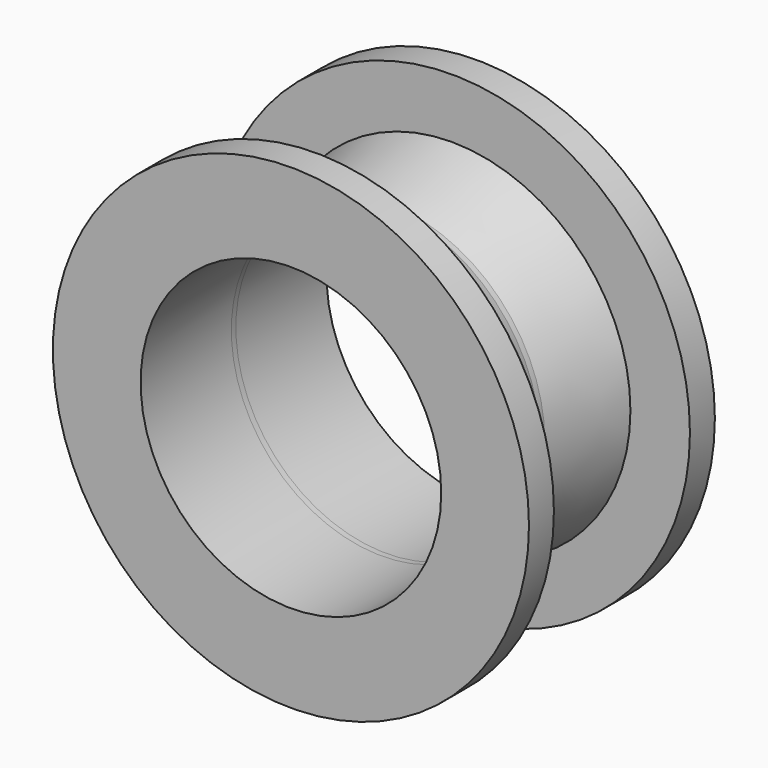
from build123d import *

# Parameters (mm, degrees)
F4_W = 9.398
F4_H = 6.35


with BuildPart() as f1:
    # F0 (on Top) → F1 (revolve)
    with BuildSketch(Plane.XY):
        Polygon((168.402, 0), (266.7, 0), (266.7, 34.925), (200.025, 34.925), (177.8, 127), (168.402, 127), align=None)
    revolve(axis=Axis((0, 63.5, 0), (0, -1, 0)))



with BuildPart() as f3_1:
    # F3: instance of F1
    add(f1.part.mirror(Plane.XZ.offset(-130.175)))


with BuildPart() as f1_1:
    add(f1.part)

    add(f3_1.part)  # F5 merges F3_1
    # F4 (on Top) → F5 (revolve)
    with BuildSketch(Plane.XY):
        with Locations((173.101, 130.175)):
            Rectangle(F4_W, F4_H)
    revolve(axis=Axis((0, 63.5, 0), (0, -1, 0)))


solid = f1_1.part
